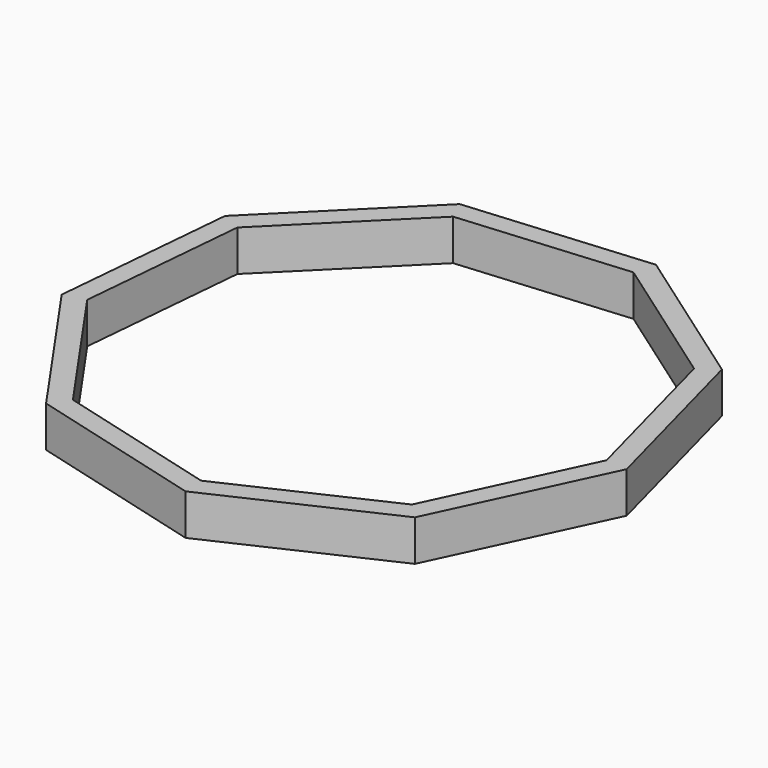
from build123d import *

# Parameters (mm, degrees)
F1_DEPTH = 50.8
F2_T     = -25.4


with BuildPart() as f1:
    # F0 (on Top) → F1 (new body)
    with BuildSketch(Plane.XY):
        Polygon((87.205826, 322.612249), (-140.567618, 303.190145), (-302.567911, 141.902003), (-322.993317, -85.783664), (-192.286559, -273.330201), (28.393216, -332.982499), (235.78749, -236.828586), (332.854177, -29.859945), (274.174695, 191.080496), align=None)
    extrude(amount=F1_DEPTH)

    # F2
    f2_openings = [f1.faces().sort_by_distance(p)[0] for p in [
        (0, 0, 0),
        (0, 0, 50.8),
    ]]
    offset(amount=F2_T, openings=f2_openings)


solid = f1.part
